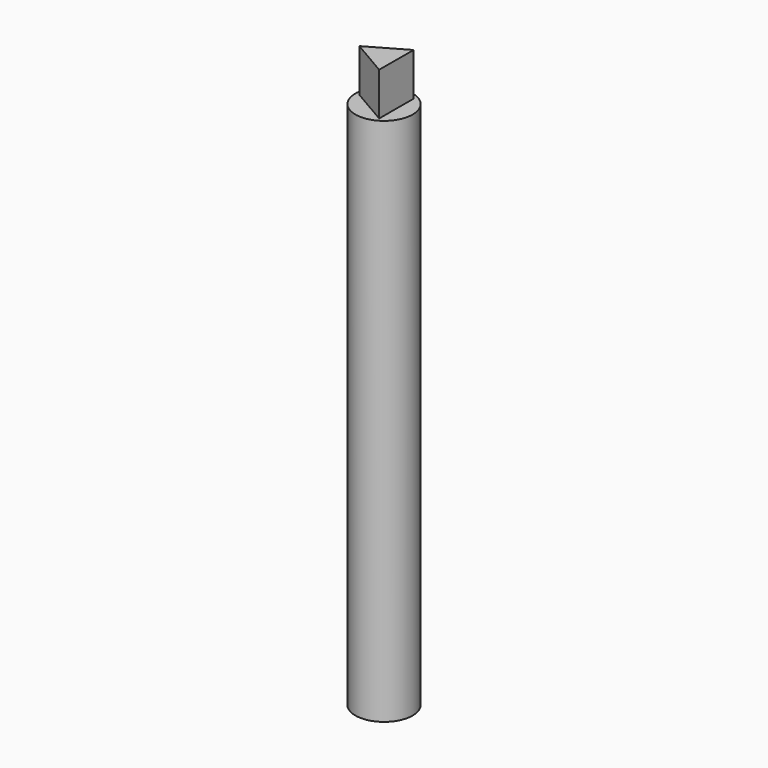
from build123d import *

# Parameters (mm, degrees)
F0_R     = 20
F1_DEPTH = 370
F3_DEPTH = 30


with BuildPart() as f1:
    # F0 (on Top) → F1 (new body)
    with BuildSketch(Plane.XY):
        Circle(F0_R)
    extrude(amount=F1_DEPTH)

    # F2 (on face) → F3 (join)
    with BuildSketch(Plane.XY.offset(370)):
        Polygon((-17.3204, 0.061187), (8.607211, -15.0305), (8.713189, 14.969313), align=None)
    extrude(amount=F3_DEPTH)


solid = f1.part
